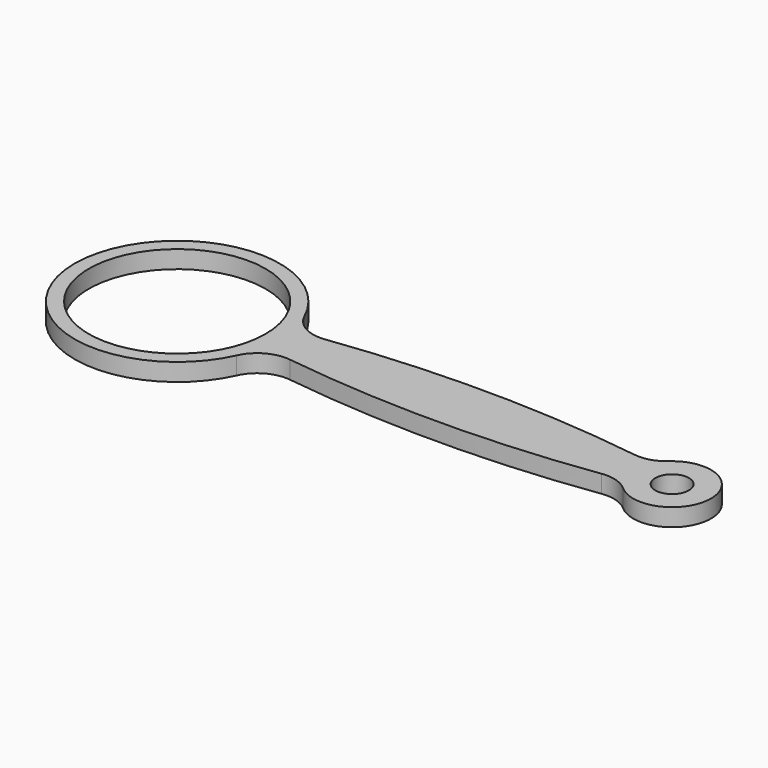
from build123d import *

# Parameters (mm, degrees)
F0_R     = 25
F0_R_2   = 4.75
F1_DEPTH = 5
F2_R     = 10


with BuildPart() as f1:
    # F0 (on Top) → F1 (new body)
    with BuildSketch(Plane.XY):
        with BuildLine():
            ThreePointArc((130.202041, 5), (79.383877, 9), (28.565714, 5))
            ThreePointArc((28.565714, 5), (-29, 0), (28.565714, -5))
            ThreePointArc((28.565714, -5), (79.383877, -9), (130.202041, -5))
            ThreePointArc((130.202041, -5), (151, 0), (130.202041, 5))
        make_face()
        Circle(F0_R, mode=Mode.SUBTRACT)
        with Locations((140, 0)):
            Circle(F0_R_2, mode=Mode.SUBTRACT)
    extrude(amount=F1_DEPTH)

    # F2
    f2_edges = [f1.edges().sort_by_distance(p)[0] for p in [
        (28.565714, -5, 2.5),
        (28.565714, 5, 2.5),
        (130.202041, 5, 2.5),
        (130.202041, -5, 2.5),
    ]]
    fillet(f2_edges, radius=F2_R)


solid = f1.part
